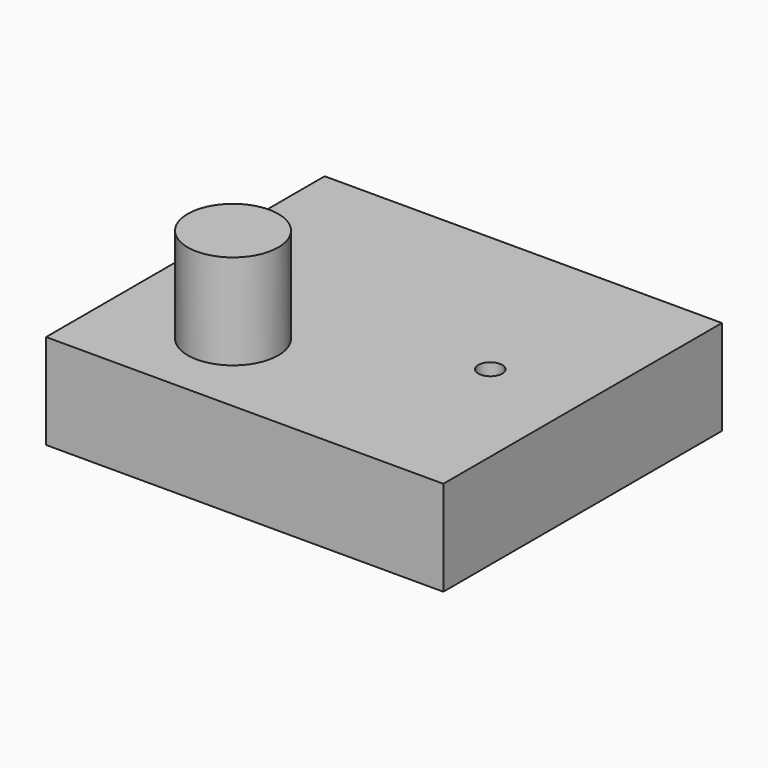
from build123d import *

# Parameters (mm, degrees)
F0_W     = 106.146804
F0_H     = 93.039534
F1_DEPTH = 25.4
F3_D     = 6.35
F4_R     = 12.11582
F5_DEPTH = 25.4


with BuildPart() as f1:
    # F0 (on Top) → F1 (new body)
    with BuildSketch(Plane.XY):
        Rectangle(F0_W, F0_H)
    extrude(amount=F1_DEPTH)

    # F3 (through all)
    with Locations(Plane.XY.offset(25.4)):
        with Locations((28.396336, 0)):
            Hole(F3_D / 2)

    # F4 (on face) → F5 (join)
    with BuildSketch(Plane.XY.offset(25.4)):
        with Locations((-22.170972, -22.711303)):
            Circle(F4_R)
    extrude(amount=F5_DEPTH)


solid = f1.part
